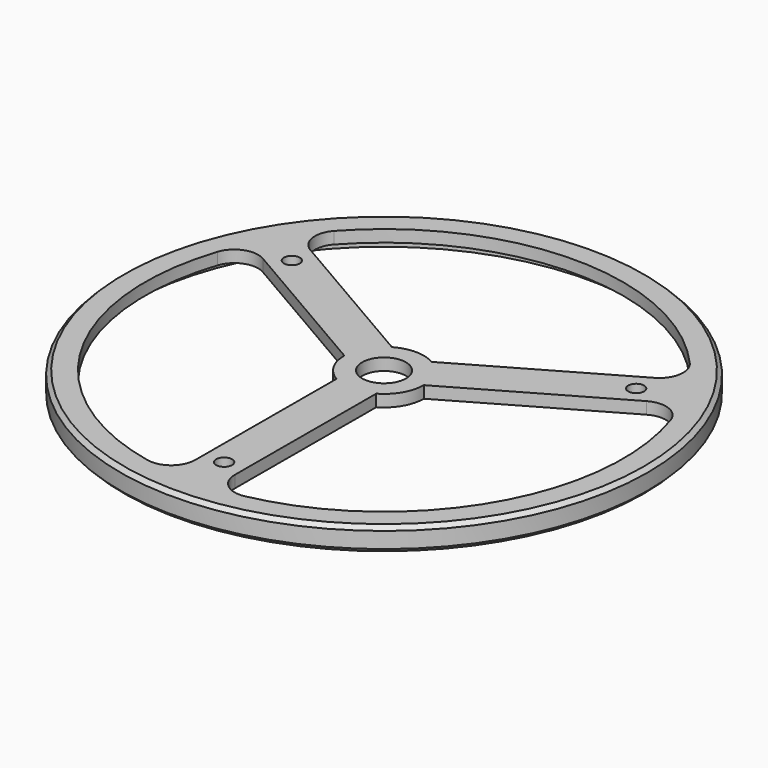
from build123d import *

# Parameters (mm, degrees)
SKETCH017_R             = 66.25
PAD004_DEPTH            = 6
SKETCH016_R             = 5.5
POCKET010_DEPTH         = 6.001
SKETCH015_R             = 2
POCKET011_DEPTH         = 380.959664
POLARPATTERN003_COUNT   = 3
CHAMFER002_SIZE         = 1
FILLET001_R             = 6
SKETCH018_R             = 64
POCKET012_DEPTH         = 3
BODY005_ROLL_ANGLE      = 180
BODY005_PLACEMENT_ANGLE = -0.162897


with BuildPart() as part:
    # Sketch017 → Pad004 (new body)
    with BuildSketch(Plane.XY):
        Circle(SKETCH017_R)
    extrude(amount=PAD004_DEPTH)

    # Sketch016 → Pocket010 (cut, through all)
    with BuildSketch(Plane.XY):
        Circle(SKETCH016_R)
    extrude(amount=POCKET010_DEPTH, mode=Mode.SUBTRACT)

    # Sketch015 → Pocket011 (cut, through all)
    with BuildSketch(Plane.XY):
        with Locations((0, 50)):
            Circle(SKETCH015_R)
        with BuildLine():
            ThreePointArc((-5, 59.791304), (-51.961524, 30), (-54.280788, -25.565525))
            Line((-10, 0), (-54.280788, -25.565525))
            ThreePointArc((-5, 8.660254), (-8.660254, 5), (-10, 0))
            Line((-5, 8.660254), (-5, 59.791304))
        make_face()
    pocket011 = extrude(amount=POCKET011_DEPTH, mode=Mode.SUBTRACT)

    # PolarPattern003: Pocket011 ×3 about axis
    polarpattern003_axis = Axis((0, 0, 0), (0, 0, 1))
    for i in range(1, POLARPATTERN003_COUNT):
        add(pocket011.rotate(polarpattern003_axis, i * 360 / POLARPATTERN003_COUNT), mode=Mode.SUBTRACT)

    # Chamfer002
    chamfer002_edges = [part.edges().sort_by_distance(p)[0] for p in [
        (-66.25, 0, 6),
        (-66.25, 0, 0),
    ]]
    chamfer(chamfer002_edges, length=CHAMFER002_SIZE)

    # Fillet001
    fillet001_edges = [part.edges().sort_by_distance(p)[0] for p in [
        (-54.280788, -25.565525, 3),
        (-5, 59.791304, 3),
        (5, 59.791304, 3),
        (54.280788, -25.565525, 3),
        (49.280788, -34.225779, 3),
        (-49.280788, -34.225779, 3),
    ]]
    fillet(fillet001_edges, radius=FILLET001_R)

    # Sketch018 (on Face25 of Fillet001) → Pocket012 (cut)
    with BuildSketch(Plane.XY.offset(6)):
        Circle(SKETCH018_R)
    extrude(amount=-POCKET012_DEPTH, mode=Mode.SUBTRACT)


with BuildPart() as part_1:
    # Body005 roll: moved
    add(part.part.rotate(Axis((0, 0, 0), (1, 0, 0)), BODY005_ROLL_ANGLE))


with BuildPart() as part_2:
    # Body005 placement: moved
    add(part_1.part.moved(Location((0, 0, 48))).rotate(Axis((0, 0, 48), (0, 0, 1)), BODY005_PLACEMENT_ANGLE))


solid = part_2.part
